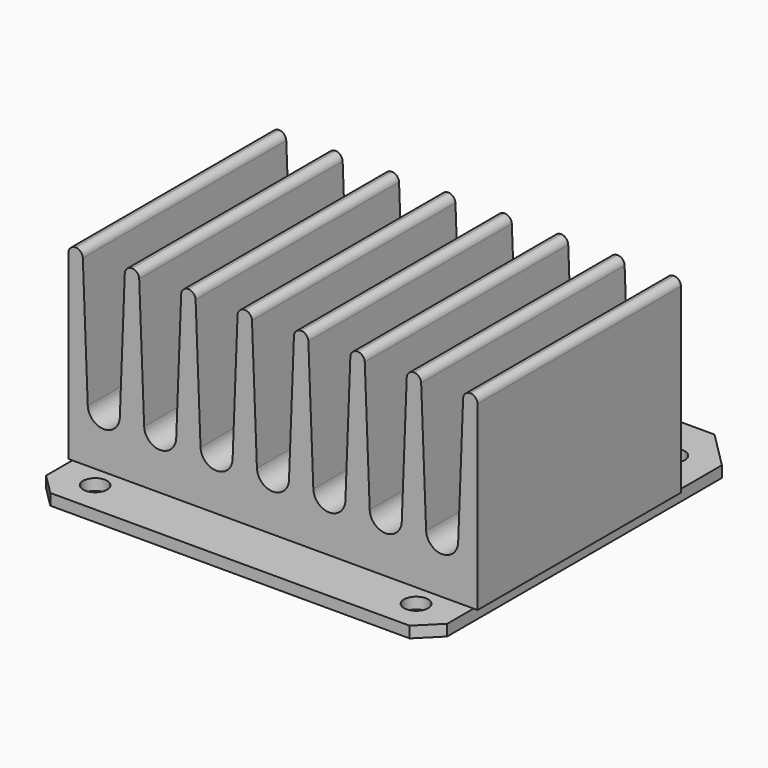
from build123d import *

# Parameters (mm, degrees)
F0_R     = 1.5
F1_DEPTH = 1.4
F2_W     = 51
F2_H     = 31.7
F3_DEPTH = 23.5
F5_DEPTH = 31.7
F6_W     = 9.6
F6_H     = 9.2
F7_DEPTH = 4.3
F6_W_2   = 13
F6_H_2   = 7.5
F8_DEPTH = 2.6


with BuildPart() as f1:
    # F0 (on Top) → F1 (new body)
    with BuildSketch(Plane.XY):
        Polygon((-25, -22.4), (-22.4, -25), (22.4, -25), (25, -22.4), (25, 20.4), (20.4, 25), (-20.4, 25), (-25, 20.4), align=None)
        with Locations((-20, -21)):
            Circle(F0_R, mode=Mode.SUBTRACT)
        with Locations((20, -21)):
            Circle(F0_R, mode=Mode.SUBTRACT)
        with Locations((-20, 19)):
            Circle(F0_R, mode=Mode.SUBTRACT)
        with Locations((20, 19)):
            Circle(F0_R, mode=Mode.SUBTRACT)
    extrude(amount=-F1_DEPTH)


with BuildPart() as f3:
    # F2 (on face) → F3 (new body)
    with BuildSketch(Plane.XY):
        with Locations((0, -2.45)):
            Rectangle(F2_W, F2_H)
    extrude(amount=F3_DEPTH)

    # F4 (on face) → F5 (cut, through all)
    with BuildSketch(Plane.XZ.offset(18.3)):
        with BuildLine():
            ThreePointArc((-18.4712381572, 22.634628973), (-18.1959374285, 23.2485237373), (-17.5719046071, 23.5))
            Line((-17.5719046071, 23.5), (-24.600666458, 23.5))
            ThreePointArc((-24.600666458, 23.5), (-23.9766336315, 23.2485237401), (-23.7013328999, 22.634628973))
            Line((-23.7013328999, 22.634628973), (-23.0848045286, 6.6230467267))
            ThreePointArc((-23.0848045286, 6.6230467267), (-21.0862855285, 4.7), (-19.0877665284, 6.6230467267))
            Line((-19.0877665284, 6.6230467267), (-18.4712381572, 22.634628973))
        make_face()
        with BuildLine():
            ThreePointArc((-11.4424763143, 22.634628973), (-11.1671755857, 23.2485237373), (-10.5431427643, 23.5))
            Line((-10.5431427643, 23.5), (-17.5719046071, 23.5))
            ThreePointArc((-17.5719046071, 23.5), (-16.9478717857, 23.2485237373), (-16.6725710571, 22.634628973))
            Line((-16.6725710571, 22.634628973), (-16.0560426858, 6.6230467267))
            ThreePointArc((-16.0560426858, 6.6230467267), (-14.0575236857, 4.7), (-12.0590046856, 6.6230467267))
            Line((-12.0590046856, 6.6230467267), (-11.4424763143, 22.634628973))
        make_face()
        with BuildLine():
            ThreePointArc((-4.4137144715, 22.634628973), (-4.1384137428, 23.2485237373), (-3.5143809214, 23.5))
            Line((-3.5143809214, 23.5), (-10.5431427643, 23.5))
            ThreePointArc((-10.5431427643, 23.5), (-9.9191099429, 23.2485237373), (-9.6438092142, 22.634628973))
            Line((-9.6438092142, 22.634628973), (-9.0272808429, 6.6230467267))
            ThreePointArc((-9.0272808429, 6.6230467267), (-7.0287618428, 4.7), (-5.0302428428, 6.6230467267))
            Line((-5.0302428428, 6.6230467267), (-4.4137144715, 22.634628973))
        make_face()
        with BuildLine():
            ThreePointArc((-3.5143809214, 23.5), (-2.8903481, 23.2485237373), (-2.6150473714, 22.634628973))
            Line((-2.6150473714, 22.634628973), (-1.998519, 6.6230467267))
            ThreePointArc((-1.998519, 6.6230467267), (0, 4.7), (1.998519, 6.6230467267))
            Line((1.998519, 6.6230467267), (2.6150473714, 22.634628973))
            ThreePointArc((2.6150473714, 22.634628973), (2.8903481055, 23.2485237425), (3.5143809365, 23.5))
            Line((3.5143809365, 23.5), (-3.5143809214, 23.5))
        make_face()
        with BuildLine():
            Line((10.5431427643, 23.5), (3.5143809365, 23.5))
            ThreePointArc((3.5143809365, 23.5), (4.1384137483, 23.2485237321), (4.4137144715, 22.634628973))
            Line((4.4137144715, 22.634628973), (5.0302428428, 6.6230467267))
            ThreePointArc((5.0302428428, 6.6230467267), (7.0287618428, 4.7), (9.0272808429, 6.6230467267))
            Line((9.0272808429, 6.6230467267), (9.6438092142, 22.634628973))
            ThreePointArc((9.6438092142, 22.634628973), (9.9191099429, 23.2485237373), (10.5431427643, 23.5))
        make_face()
        with BuildLine():
            Line((17.5719046071, 23.5), (10.5431427643, 23.5))
            ThreePointArc((10.5431427643, 23.5), (11.1671755857, 23.2485237373), (11.4424763143, 22.634628973))
            Line((11.4424763143, 22.634628973), (12.0590046856, 6.6230467267))
            ThreePointArc((12.0590046856, 6.6230467267), (14.0575236857, 4.7), (16.0560426858, 6.6230467267))
            Line((16.0560426858, 6.6230467267), (16.6725710571, 22.634628973))
            ThreePointArc((16.6725710571, 22.634628973), (16.9478717857, 23.2485237373), (17.5719046071, 23.5))
        make_face()
        with BuildLine():
            Line((24.60066645, 23.5), (17.5719046071, 23.5))
            ThreePointArc((17.5719046071, 23.5), (18.1959374285, 23.2485237373), (18.4712381572, 22.634628973))
            Line((18.4712381572, 22.634628973), (19.0877665284, 6.6230467267))
            ThreePointArc((19.0877665284, 6.6230467267), (21.0862855285, 4.7), (23.0848045286, 6.6230467267))
            Line((23.0848045286, 6.6230467267), (23.7013328999, 22.634628973))
            ThreePointArc((23.7013328999, 22.634628973), (23.9766336286, 23.2485237373), (24.60066645, 23.5))
        make_face()
        with BuildLine():
            Line((25.5, 23.5), (24.60066645, 23.5))
            ThreePointArc((24.60066645, 23.5), (25.2246992713, 23.2485237373), (25.5, 22.634628973))
            Line((25.5, 22.634628973), (25.5, 23.5))
        make_face()
        with BuildLine():
            ThreePointArc((-25.5, 22.634628973), (-25.2246992742, 23.2485237345), (-24.600666458, 23.5))
            Line((-24.600666458, 23.5), (-25.5, 23.5))
            Line((-25.5, 23.5), (-25.5, 22.634628973))
        make_face()
    extrude(amount=-F5_DEPTH, mode=Mode.SUBTRACT)


with BuildPart() as f7:
    # F6 (on face) → F7 (new body)
    with BuildSketch(Plane(origin=(0, 0, -1.4), x_dir=(1, 0, 0), z_dir=(0, 0, -1))):
        with Locations((5.5, 1.4)):
            Rectangle(F6_W, F6_H)
    extrude(amount=F7_DEPTH)


with BuildPart() as f7b:
    # F6 (on face) → F7, piece 2 (new body)
    with BuildSketch(Plane(origin=(0, 0, -1.4), x_dir=(1, 0, 0), z_dir=(0, 0, -1))):
        with Locations((-5.5, 1.4)):
            Rectangle(F6_W, F6_H)
    extrude(amount=F7_DEPTH)


with BuildPart() as f8:
    # F6 (on face) → F8 (new body)
    with BuildSketch(Plane(origin=(0, 0, -1.4), x_dir=(1, 0, 0), z_dir=(0, 0, -1))):
        with Locations((-17.5, 11.35)):
            Rectangle(F6_W_2, F6_H_2)
    extrude(amount=F8_DEPTH)


solid = Compound([f1.part, f3.part, f7.part, f7b.part, f8.part])
